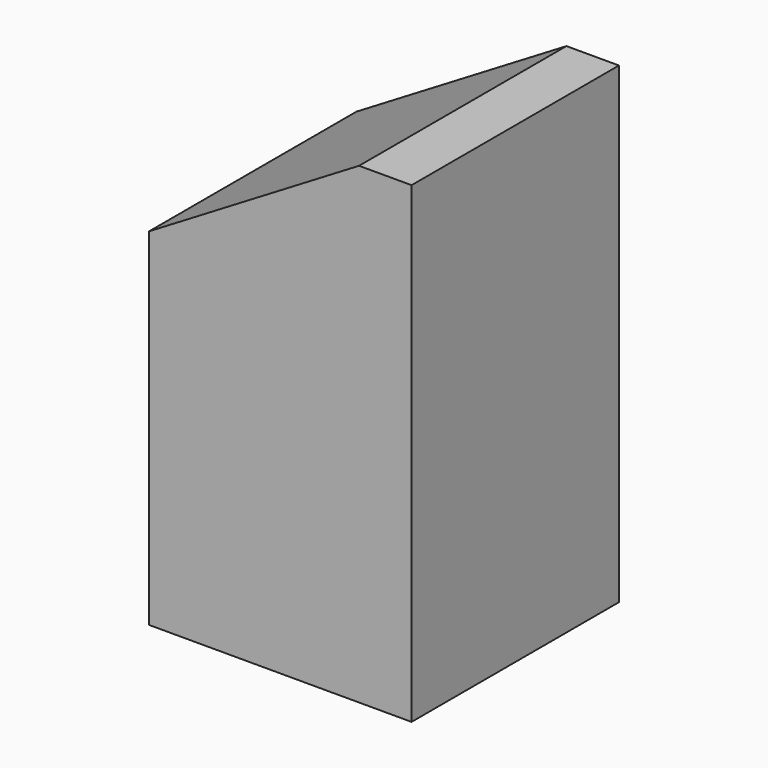
from build123d import *

# Parameters (mm, degrees)
SKETCH017_W     = 16
SKETCH017_H     = 15.8
PAD010_DEPTH    = 28.8
POCKET007_DEPTH = 16
PAD137_DEPTH    = 15.8


with BuildPart() as part:
    # Sketch017 (on Face68 of Binder006) → Pad010 (new body)
    with BuildSketch(Plane.XY.offset(-28.8)):
        with Locations((-8, 127.9)):
            Rectangle(SKETCH017_W, SKETCH017_H)
    extrude(amount=PAD010_DEPTH)

    # Sketch018 (on Face3 of Pad010) → Pocket007 (cut)
    with BuildSketch(Plane.XZ.offset(-120)):
        Polygon((0, 0), (-16, -9.6), (-16, 0), align=None)
    extrude(amount=-POCKET007_DEPTH, mode=Mode.SUBTRACT)

    # Sketch141 (on Face6 of Pocket007) → Pad137 (join)
    with BuildSketch(Plane.XZ.offset(-120)):
        Polygon((0, 0), (-3.2, 0), (-16, -7.68), (-16, -10.88), (-3.2, -3.2), (0, -3.2), align=None)
    extrude(amount=-PAD137_DEPTH)


solid = part.part
